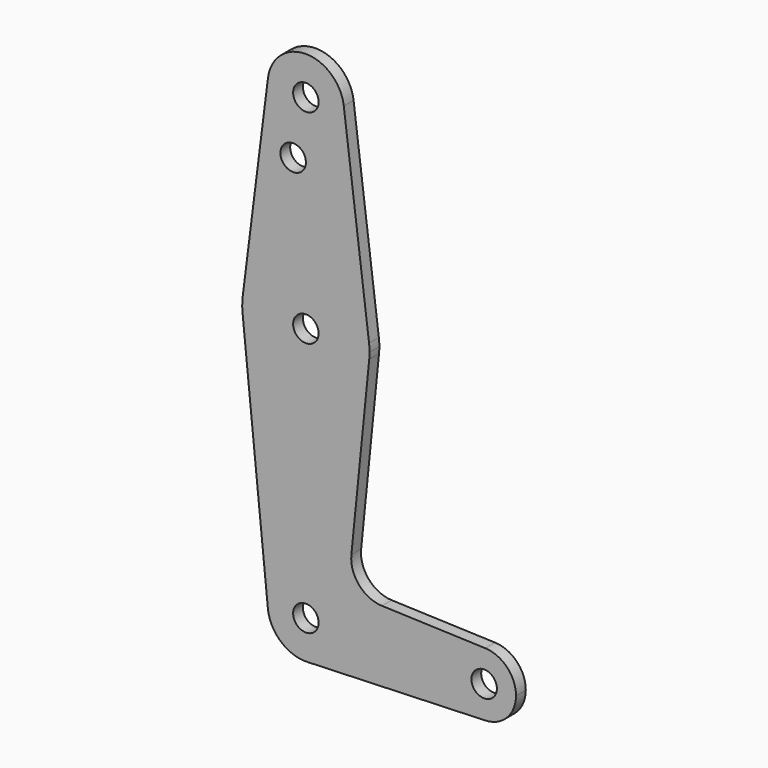
from build123d import *

# Parameters (mm, degrees)
F0_R     = 3.175
F1_DEPTH = 3.048


with BuildPart() as f1:
    # F0 (on Front) → F1 (new body)
    with BuildSketch(Plane.XZ):
        with BuildLine():
            ThreePointArc((15.795426, -52.3875), (15.855094, -51.594747), (15.875, -50.8))
            ThreePointArc((15.875, -50.8), (15.843841, -49.805861), (15.750488, -48.815625))
            ThreePointArc((15.750488, -48.815625), (0, -34.925), (-15.750488, -48.815625))
            ThreePointArc((-15.750488, -48.815625), (-15.873744, -50.600295), (-15.795426, -52.3875))
            ThreePointArc((-15.795426, -52.3875), (0, -66.675), (15.795426, -52.3875))
        make_face()
        with Locations((0, -50.8)):
            Circle(F0_R, mode=Mode.SUBTRACT)
        with BuildLine():
            ThreePointArc((-15.750488, -48.815625), (0, -34.925), (15.750488, -48.815625))
            Line((15.750488, -48.815625), (9.450293, 1.190625))
            ThreePointArc((9.450293, 1.190625), (9.506305, 0.596483), (9.525, 0))
            ThreePointArc((9.525, 0), (-0.596483, -9.506305), (-9.450293, 1.190625))
            Line((-9.450293, 1.190625), (-15.750488, -48.815625))
        make_face()
        with Locations((-3.175, -14.2748)):
            Circle(F0_R, mode=Mode.SUBTRACT)
        with BuildLine():
            Line((11.341187, -96.706618), (15.795426, -52.3875))
            ThreePointArc((15.795426, -52.3875), (0, -66.675), (-15.795426, -52.3875))
            Line((-15.795426, -52.3875), (-9.477255, -115.2525))
            ThreePointArc((-9.477255, -115.2525), (-0.476848, -104.786944), (9.525, -114.3))
            ThreePointArc((9.525, -114.3), (6.854408, -120.913827), (0.340179, -123.818923))
            Line((0.340179, -123.818923), (44.733482, -122.232436))
            ThreePointArc((44.733482, -122.232436), (36.5125, -114.3), (44.733482, -106.367564))
            Line((44.733482, -106.367564), (18.9676, -105.446766))
            ThreePointArc((18.9676, -105.446766), (13.2612, -102.728641), (11.341187, -96.706618))
        make_face()
        with BuildLine():
            ThreePointArc((9.525, 0), (9.506305, 0.596483), (9.450293, 1.190625))
            ThreePointArc((9.450293, 1.190625), (0, 9.525), (-9.450293, 1.190625))
            ThreePointArc((-9.450293, 1.190625), (-0.596483, -9.506305), (9.525, 0))
        make_face()
        Circle(F0_R, mode=Mode.SUBTRACT)
        with BuildLine():
            ThreePointArc((9.525, -114.3), (-0.476848, -104.786944), (-9.477255, -115.2525))
            ThreePointArc((-9.477255, -115.2525), (-6.262383, -121.47692), (0.340179, -123.818923))
            ThreePointArc((0.340179, -123.818923), (6.854408, -120.913827), (9.525, -114.3))
        make_face()
        with Locations((0, -114.3)):
            Circle(F0_R, mode=Mode.SUBTRACT)
        with BuildLine():
            ThreePointArc((52.3875, -114.3), (50.162007, -108.788477), (44.733482, -106.367564))
            ThreePointArc((44.733482, -106.367564), (36.5125, -114.3), (44.733482, -122.232436))
            ThreePointArc((44.733482, -122.232436), (50.162007, -119.811523), (52.3875, -114.3))
        make_face()
        with Locations((44.45, -114.3)):
            Circle(F0_R, mode=Mode.SUBTRACT)
    extrude(amount=F1_DEPTH)


solid = f1.part
